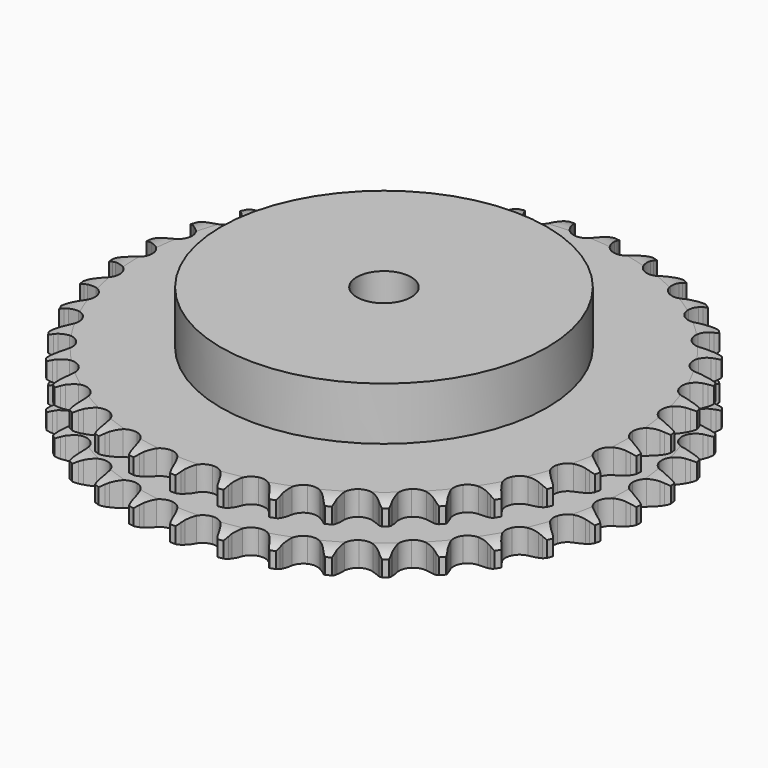
from build123d import *

# Parameters (mm, degrees)
PAD_DEPTH         = 25.5
SKETCH001_R       = 60
PAD001_DEPTH      = 45
SKETCH002_R       = 10
POCKET_DEPTH      = 0.001
POCKET_DEPTH_BACK = 45.001


with BuildPart() as part:
    # Sprocket → Pad (new body)
    with BuildSketch(Plane.XY):
        with BuildLine():
            ThreePointArc((-8.361214, 98.237154), (-7.231776, 96.838218), (-6.432471, 95.227702))
            Line((-6.432471, 95.227702), (-5.936919, 93.876112))
            ThreePointArc((-5.936919, 93.876112), (-5.153166, 92.136792), (-4.128134, 90.527815))
            ThreePointArc((-4.128134, 90.527815), (-2.310205, 89.000564), (0, 88.452555))
            ThreePointArc((0, 88.452555), (2.310205, 89.000564), (4.128134, 90.527815))
            ThreePointArc((4.128134, 90.527815), (5.153166, 92.136792), (5.936919, 93.876112))
            Line((5.936919, 93.876112), (6.432471, 95.227702))
            ThreePointArc((6.432471, 95.227702), (7.231776, 96.838218), (8.361214, 98.237154))
            ThreePointArc((8.361214, 98.237154), (9.237985, 96.667465), (9.753614, 94.945031))
            Line((9.753614, 94.945031), (10.013618, 93.529133))
            ThreePointArc((10.013618, 93.529133), (10.492151, 91.682378), (11.23052, 89.923312))
            ThreePointArc((11.23052, 89.923312), (12.764193, 88.110798), (14.948554, 87.180246))
            ThreePointArc((14.948554, 87.180246), (17.318143, 87.329945), (19.36803, 88.527996))
            Line((19.36803, 88.527996), (21.716662, 91.522445))
            ThreePointArc((21.716662, 91.522445), (22.058144, 92.156372), (22.433505, 92.770845))
            ThreePointArc((22.433505, 92.770845), (23.493492, 94.223112), (24.843105, 95.41105))
            ThreePointArc((24.843105, 95.41105), (25.441986, 93.715764), (25.659105, 91.930964))
            Line((25.659105, 91.930964), (25.676082, 90.491492))
            ThreePointArc((25.676082, 90.491492), (25.835628, 88.590428), (26.266093, 86.73188))
            ThreePointArc((26.266093, 86.73188), (27.471389, 84.686245), (29.467066, 83.399919))
            ThreePointArc((29.467066, 83.399919), (31.82787, 83.147003), (34.050742, 83.981389))
            Line((34.050742, 83.981389), (36.871656, 86.535844))
            ThreePointArc((36.871656, 86.535844), (37.31536, 87.102942), (37.789169, 87.64514))
            ThreePointArc((37.789169, 87.64514), (39.079343, 88.897379), (40.610305, 89.840143))
            ThreePointArc((40.610305, 89.840143), (40.914067, 88.068032), (40.826431, 86.272211))
            Line((40.826431, 86.272211), (40.599891, 84.850576))
            ThreePointArc((40.599891, 84.850576), (40.435861, 82.949893), (40.546038, 81.04533))
            ThreePointArc((40.546038, 81.04533), (41.388283, 78.825424), (43.137864, 77.220329))
            ThreePointArc((43.137864, 77.220329), (45.421967, 76.572073), (47.753877, 77.01879))
            Line((47.753877, 77.01879), (50.965919, 79.059765))
            ThreePointArc((50.965919, 79.059765), (51.499081, 79.543719), (52.057707, 79.998044))
            ThreePointArc((52.057707, 79.998044), (53.540952, 81.014231), (55.209221, 81.6847))
            ThreePointArc((55.209221, 81.6847), (55.209125, 79.886742), (54.819254, 78.131564))
            Line((54.819254, 78.131564), (54.355715, 76.768663))
            ThreePointArc((54.355715, 76.768663), (53.872828, 74.923041), (53.659548, 73.027253))
            ThreePointArc((53.659548, 73.027253), (54.114512, 70.696938), (55.567664, 68.819251))
            ThreePointArc((55.567664, 68.819251), (57.709356, 67.794304), (60.083219, 67.8405))
            Line((60.083219, 67.8405), (63.593986, 69.30928))
            ThreePointArc((63.593986, 69.30928), (64.201268, 69.696168), (64.828639, 70.04955))
            ThreePointArc((64.828639, 70.04955), (66.462285, 70.80045), (68.219868, 71.179336))
            ThreePointArc((68.219868, 71.179336), (67.915917, 69.407257), (67.235028, 67.743213))
            Line((67.235028, 67.743213), (66.547825, 66.478255))
            ThreePointArc((66.547825, 66.478255), (65.759972, 64.740789), (65.229369, 62.908315))
            ThreePointArc((65.229369, 62.908315), (65.283964, 60.53463), (66.398884, 58.438368))
            ThreePointArc((66.398884, 58.438368), (68.336552, 57.066216), (70.684077, 56.710563))
            Line((70.684077, 56.710563), (74.392569, 57.564893))
            ThreePointArc((74.392569, 57.564893), (75.056501, 57.843585), (75.73457, 58.085858))
            ThreePointArc((75.73457, 58.085858), (77.47162, 58.549869), (79.267953, 58.626272))
            ThreePointArc((79.267953, 58.626272), (78.668892, 56.931051), (77.716572, 55.406014))
            Line((77.716572, 55.406014), (76.825475, 54.275389))
            ThreePointArc((76.825475, 54.275389), (75.755321, 52.696062), (74.922661, 50.979619))
            ThreePointArc((74.922661, 50.979619), (74.575316, 48.630851), (75.319928, 46.376319))
            ThreePointArc((75.319928, 46.376319), (76.997831, 44.696437), (79.251483, 43.949166))
            Line((79.251483, 43.949166), (83.051014, 44.16447))
            ThreePointArc((83.051014, 44.16447), (83.752495, 44.326948), (84.461754, 44.451141))
            ThreePointArc((84.461754, 44.451141), (86.252237, 44.614915), (88.035644, 44.386638))
            ThreePointArc((88.035644, 44.386638), (87.158706, 42.817042), (85.962351, 41.474885))
            Line((85.962351, 41.474885), (84.892995, 40.511118))
            ThreePointArc((84.892995, 40.511118), (83.571327, 39.135366), (82.460564, 37.584332))
            ThreePointArc((82.460564, 37.584332), (81.721271, 35.328051), (82.074156, 32.980108))
            ThreePointArc((82.074156, 32.980108), (83.444021, 31.040823), (85.538967, 29.923432))
            Line((85.538967, 29.923432), (89.320233, 29.493514))
            ThreePointArc((89.320233, 29.493514), (90.039082, 29.535105), (90.759128, 29.537646))
            ThreePointArc((90.759128, 29.537646), (92.551535, 29.396471), (94.27071, 28.87008))
            ThreePointArc((94.27071, 28.87008), (93.141122, 27.471266), (91.735151, 26.350598))
            Line((91.735151, 26.350598), (90.518299, 25.581417))
            ThreePointArc((90.518299, 25.581417), (88.983139, 24.448817), (87.626227, 23.107813))
            ThreePointArc((87.626227, 23.107813), (86.516255, 21.008927), (86.467259, 18.63512))
            ThreePointArc((86.467259, 18.63512), (87.48968, 16.492221), (89.365652, 15.036855))
            Line((89.365652, 15.036855), (93.019871, 13.974084))
            ThreePointArc((93.019871, 13.974084), (93.735408, 13.89359), (94.445527, 13.774407))
            ThreePointArc((94.445527, 13.774407), (96.188293, 13.332345), (97.793779, 12.522983))
            ThreePointArc((97.793779, 12.522983), (96.444038, 11.33519), (94.868897, 10.468253))
            Line((94.868897, 10.468253), (93.539556, 9.915785))
            ThreePointArc((93.539556, 9.915785), (91.835068, 9.058919), (90.271043, 7.966524))
            ThreePointArc((90.271043, 7.966524), (88.822323, 6.085415), (88.372857, 3.754033))
            ThreePointArc((88.372857, 3.754033), (89.018419, 1.469167), (90.621449, -0.282305))
            Line((90.621449, -0.282305), (94.043496, -1.947354))
            ThreePointArc((94.043496, -1.947354), (94.735138, -2.147617), (95.4149, -2.385097))
            ThreePointArc((95.4149, -2.385097), (97.057889, -3.115329), (98.503499, -4.184377))
            ThreePointArc((98.503499, -4.184377), (96.972435, -5.126978), (95.273438, -5.715244))
            Line((95.273438, -5.715244), (93.869851, -6.035107))
            ThreePointArc((93.869851, -6.035107), (92.045068, -6.591587), (90.318925, -7.403948))
            ThreePointArc((90.318925, -7.403948), (88.573135, -9.013164), (87.736128, -11.235051))
            ThreePointArc((87.736128, -11.235051), (87.986261, -13.596151), (89.270232, -15.593344))
            Line((89.270232, -15.593344), (92.361662, -17.812772))
            ThreePointArc((92.361662, -17.812772), (93.00951, -18.127042), (93.639361, -18.475986))
            ThreePointArc((93.639361, -18.475986), (95.135306, -19.473381), (96.379452, -20.771361))
            ThreePointArc((96.379452, -20.771361), (94.711112, -21.441652), (92.937135, -21.734325))
            Line((92.937135, -21.734325), (91.49968, -21.812379))
            ThreePointArc((91.49968, -21.812379), (89.6071, -22.052465), (87.768497, -22.561421))
            ThreePointArc((87.768497, -22.561421), (85.775859, -23.85245), (84.575391, -25.900922))
            ThreePointArc((84.575391, -25.900922), (84.422898, -28.270333), (85.350873, -30.45579))
            Line((85.350873, -30.45579), (88.02275, -33.165748))
            ThreePointArc((88.02275, -33.165748), (88.608168, -33.584984), (89.169987, -34.035354))
            ThreePointArc((89.169987, -34.035354), (90.475854, -35.271219), (91.482745, -36.76079))
            ThreePointArc((91.482745, -36.76079), (89.725122, -37.139489), (87.9272, -37.128149))
            Line((87.9272, -37.128149), (86.497231, -36.962149))
            ThreePointArc((86.497231, -36.962149), (84.591299, -36.878934), (82.693128, -37.069843))
            ThreePointArc((82.693128, -37.069843), (80.510968, -38.005545), (78.981574, -39.821672))
            ThreePointArc((78.981574, -39.821672), (78.430842, -42.131229), (78.976125, -44.442079))
            Line((78.976125, -44.442079), (81.151584, -47.564606))
            ThreePointArc((81.151584, -47.564606), (81.65773, -48.076748), (82.135355, -48.615588))
            ThreePointArc((82.135355, -48.615588), (83.213576, -50.054368), (83.954245, -51.692679))
            ThreePointArc((83.954245, -51.692679), (82.157903, -51.76889), (80.38776, -51.453863))
            Line((80.38776, -51.453863), (79.006413, -51.048585))
            ThreePointArc((79.006413, -51.048585), (77.14196, -50.644463), (75.238829, -50.511834))
            ThreePointArc((75.238829, -50.511834), (72.929922, -51.065289), (71.115601, -52.596824))
            ThreePointArc((71.115601, -52.596824), (70.182473, -54.780086), (70.329378, -57.14985))
            Line((70.329378, -57.14985), (71.945835, -60.595116))
            ThreePointArc((71.945835, -60.595116), (72.358148, -61.185431), (72.737839, -61.797239))
            ThreePointArc((72.737839, -61.797239), (73.557396, -63.397544), (74.010534, -65.137463))
            ThreePointArc((74.010534, -65.137463), (72.227152, -64.908995), (70.53571, -64.299343))
            Line((70.53571, -64.299343), (69.242725, -63.666446))
            ThreePointArc((69.242725, -63.666446), (67.473388, -62.953043), (65.620045, -62.500691))
            ThreePointArc((65.620045, -62.500691), (63.250816, -62.655978), (61.203761, -63.858861))
            ThreePointArc((61.203761, -63.858861), (59.915083, -65.85302), (59.659382, -68.213524))
            Line((59.659382, -68.213524), (60.670336, -71.882416))
            ThreePointArc((60.670336, -71.882416), (60.976954, -72.533921), (61.247787, -73.201096))
            ThreePointArc((61.247787, -73.201096), (61.785102, -74.916889), (61.937676, -76.708361))
            ThreePointArc((61.937676, -76.708361), (60.218557, -76.181786), (58.654476, -75.295049))
            Line((58.654476, -75.295049), (57.48705, -74.452739))
            ThreePointArc((57.48705, -74.452739), (55.863728, -73.450579), (54.113493, -72.691517))
            ThreePointArc((54.113493, -72.691517), (51.752099, -72.444169), (49.531201, -73.283796))
            ThreePointArc((49.531201, -73.283796), (47.924044, -75.031482), (47.273095, -77.314819))
            Line((47.273095, -77.314819), (47.649461, -81.101789))
            ThreePointArc((47.649461, -81.101789), (47.841564, -81.795742), (47.995748, -82.499092))
            ThreePointArc((47.995748, -82.499092), (48.235364, -84.28101), (48.082983, -86.072499))
            ThreePointArc((48.082983, -86.072499), (46.477583, -85.262966), (45.08586, -84.124652))
            Line((45.08586, -84.124652), (44.077577, -83.097163))
            ThreePointArc((44.077577, -83.097163), (42.646972, -81.835075), (41.050193, -80.79114))
            ThreePointArc((41.050193, -80.79114), (38.764568, -80.148273), (36.433718, -80.600488))
            ThreePointArc((36.433718, -80.600488), (34.554318, -82.051426), (33.526846, -84.191907))
            Line((33.526846, -84.191907), (33.257798, -87.988012))
            ThreePointArc((33.257798, -87.988012), (33.329859, -88.704448), (33.362959, -89.423738))
            ThreePointArc((33.362959, -89.423738), (33.297983, -91.220521), (32.84503, -92.960488))
            ThreePointArc((32.84503, -92.960488), (31.399534, -91.891285), (30.220206, -90.534143))
            Line((30.220206, -90.534143), (29.400073, -89.351033))
            ThreePointArc((29.400073, -89.351033), (28.203339, -87.865325), (26.805955, -86.56655))
            ThreePointArc((26.805955, -86.56655), (24.661851, -85.546657), (22.288103, -85.598452))
            ThreePointArc((22.288103, -85.598452), (20.190528, -86.710899), (18.816092, -88.646948))
            Line((18.816092, -88.646948), (17.909369, -92.34298))
            ThreePointArc((17.909369, -92.34298), (17.859315, -93.061289), (17.770378, -93.775826))
            ThreePointArc((17.770378, -93.775826), (17.402679, -95.535783), (16.662185, -97.174173))
            ThreePointArc((16.662185, -97.174173), (15.418178, -95.87606), (14.485171, -94.339132))
            Line((14.485171, -94.339132), (13.876782, -93.034436))
            ThreePointArc((13.876782, -93.034436), (12.948348, -91.36785), (11.790557, -89.851597))
            ThreePointArc((11.790557, -89.851597), (9.849658, -88.484019), (7.501301, -88.133904))
            ThreePointArc((7.501301, -88.133904), (5.245892, -88.875857), (3.564033, -90.551777))
            Line((3.564033, -90.551777), (2.045719, -94.041408))
            ThreePointArc((2.045719, -94.041408), (1.874991, -94.740926), (1.666576, -95.430155))
            ThreePointArc((1.666576, -95.430155), (1.006731, -97.102655), (0, -98.592334))
            ThreePointArc((0, -98.592334), (-1.006731, -97.102655), (-1.666576, -95.430155))
            Line((-1.666576, -95.430155), (-2.045719, -94.041408))
            ThreePointArc((-2.045719, -94.041408), (-2.679144, -92.241888), (-3.564033, -90.551777))
            ThreePointArc((-3.564033, -90.551777), (-5.245892, -88.875857), (-7.501301, -88.133904))
            ThreePointArc((-7.501301, -88.133904), (-9.849658, -88.484019), (-11.790557, -89.851597))
            Line((-11.790557, -89.851597), (-13.876782, -93.034436))
            ThreePointArc((-13.876782, -93.034436), (-14.163273, -93.695039), (-14.485171, -94.339132))
            ThreePointArc((-14.485171, -94.339132), (-15.418178, -95.87606), (-16.662185, -97.174173))
            ThreePointArc((-16.662185, -97.174173), (-17.402679, -95.535783), (-17.770378, -93.775826))
            Line((-17.770378, -93.775826), (-17.909369, -92.34298))
            ThreePointArc((-17.909369, -92.34298), (-18.229562, -90.462294), (-18.816092, -88.646948))
            ThreePointArc((-18.816092, -88.646948), (-20.190528, -86.710899), (-22.288103, -85.598452))
            ThreePointArc((-22.288103, -85.598452), (-24.661851, -85.546657), (-26.805955, -86.56655))
            Line((-26.805955, -86.56655), (-29.400073, -89.351033))
            ThreePointArc((-29.400073, -89.351033), (-29.794086, -89.953716), (-30.220206, -90.534143))
            ThreePointArc((-30.220206, -90.534143), (-31.399534, -91.891285), (-32.84503, -92.960488))
            ThreePointArc((-32.84503, -92.960488), (-33.297983, -91.220521), (-33.362959, -89.423738))
            Line((-33.362959, -89.423738), (-33.257798, -87.988012))
            ThreePointArc((-33.257798, -87.988012), (-33.255548, -86.080266), (-33.526846, -84.191907))
            ThreePointArc((-33.526846, -84.191907), (-34.554318, -82.051426), (-36.433718, -80.600488))
            ThreePointArc((-36.433718, -80.600488), (-38.764568, -80.148273), (-41.050193, -80.79114))
            Line((-41.050193, -80.79114), (-44.077577, -83.097163))
            ThreePointArc((-44.077577, -83.097163), (-44.567777, -83.624589), (-45.08586, -84.124652))
            ThreePointArc((-45.08586, -84.124652), (-46.477583, -85.262966), (-48.082983, -86.072499))
            ThreePointArc((-48.082983, -86.072499), (-48.235364, -84.28101), (-47.995748, -82.499092))
            Line((-47.995748, -82.499092), (-47.649461, -81.101789))
            ThreePointArc((-47.649461, -81.101789), (-47.324833, -79.221865), (-47.273095, -77.314819))
            ThreePointArc((-47.273095, -77.314819), (-47.924044, -75.031482), (-49.531201, -73.283796))
            ThreePointArc((-49.531201, -73.283796), (-51.752099, -72.444169), (-54.113493, -72.691517))
            Line((-54.113493, -72.691517), (-57.48705, -74.452739))
            ThreePointArc((-57.48705, -74.452739), (-58.059334, -74.889735), (-58.654476, -75.295049))
            ThreePointArc((-58.654476, -75.295049), (-60.218557, -76.181786), (-61.937676, -76.708361))
            ThreePointArc((-61.937676, -76.708361), (-61.785102, -74.916889), (-61.247787, -73.201096))
            Line((-61.247787, -73.201096), (-60.670336, -71.882416))
            ThreePointArc((-60.670336, -71.882416), (-60.032668, -70.084395), (-59.659382, -68.213524))
            ThreePointArc((-59.659382, -68.213524), (-59.915083, -65.85302), (-61.203761, -63.858861))
            ThreePointArc((-61.203761, -63.858861), (-63.250816, -62.655978), (-65.620045, -62.500691))
            Line((-65.620045, -62.500691), (-69.242725, -63.666446))
            ThreePointArc((-69.242725, -63.666446), (-69.88063, -64.000439), (-70.53571, -64.299343))
            ThreePointArc((-70.53571, -64.299343), (-72.227152, -64.908995), (-74.010534, -65.137463))
            ThreePointArc((-74.010534, -65.137463), (-73.557396, -63.397544), (-72.737839, -61.797239))
            Line((-72.737839, -61.797239), (-71.945835, -60.595116))
            ThreePointArc((-71.945835, -60.595116), (-71.013473, -58.930724), (-70.329378, -57.14985))
            ThreePointArc((-70.329378, -57.14985), (-70.182473, -54.780086), (-71.115601, -52.596824))
            ThreePointArc((-71.115601, -52.596824), (-72.929922, -51.065289), (-75.238829, -50.511834))
            Line((-75.238829, -50.511834), (-79.006413, -51.048585))
            ThreePointArc((-79.006413, -51.048585), (-79.691587, -51.269967), (-80.38776, -51.453863))
            ThreePointArc((-80.38776, -51.453863), (-82.157903, -51.76889), (-83.954245, -51.692679))
            ThreePointArc((-83.954245, -51.692679), (-83.213576, -50.054368), (-82.135355, -48.615588))
            Line((-82.135355, -48.615588), (-81.151584, -47.564606))
            ThreePointArc((-81.151584, -47.564606), (-79.95135, -46.081724), (-78.976125, -44.442079))
            ThreePointArc((-78.976125, -44.442079), (-78.430842, -42.131229), (-78.981574, -39.821672))
            ThreePointArc((-78.981574, -39.821672), (-80.510968, -38.005545), (-82.693128, -37.069843))
            Line((-82.693128, -37.069843), (-86.497231, -36.962149))
            ThreePointArc((-86.497231, -36.962149), (-87.209963, -37.064552), (-87.9272, -37.128149))
            ThreePointArc((-87.9272, -37.128149), (-89.725122, -37.139489), (-91.482745, -36.76079))
            ThreePointArc((-91.482745, -36.76079), (-90.475854, -35.271219), (-89.169987, -34.035354))
            Line((-89.169987, -34.035354), (-88.02275, -33.165748))
            ThreePointArc((-88.02275, -33.165748), (-86.589172, -31.907037), (-85.350873, -30.45579))
            ThreePointArc((-85.350873, -30.45579), (-84.422898, -28.270333), (-84.575391, -25.900922))
            ThreePointArc((-84.575391, -25.900922), (-85.775859, -23.85245), (-87.768497, -22.561421))
            Line((-87.768497, -22.561421), (-91.49968, -21.812379))
            ThreePointArc((-91.49968, -21.812379), (-92.219467, -21.792856), (-92.937135, -21.734325))
            ThreePointArc((-92.937135, -21.734325), (-94.711112, -21.441652), (-96.379452, -20.771361))
            ThreePointArc((-96.379452, -20.771361), (-95.135306, -19.473381), (-93.639361, -18.475986))
            Line((-93.639361, -18.475986), (-92.361662, -17.812772))
            ThreePointArc((-92.361662, -17.812772), (-90.735981, -16.814442), (-89.270232, -15.593344))
            ThreePointArc((-89.270232, -15.593344), (-87.986261, -13.596151), (-87.736128, -11.235051))
            ThreePointArc((-87.736128, -11.235051), (-88.573135, -9.013164), (-90.318925, -7.403948))
            Line((-90.318925, -7.403948), (-93.869851, -6.035107))
            ThreePointArc((-93.869851, -6.035107), (-94.575984, -5.894221), (-95.273438, -5.715244))
            ThreePointArc((-95.273438, -5.715244), (-96.972435, -5.126978), (-98.503499, -4.184377))
            ThreePointArc((-98.503499, -4.184377), (-97.057889, -3.115329), (-95.4149, -2.385097))
            Line((-95.4149, -2.385097), (-94.043496, -1.947354))
            ThreePointArc((-94.043496, -1.947354), (-92.272481, -1.238127), (-90.621449, -0.282305))
            ThreePointArc((-90.621449, -0.282305), (-89.018419, 1.469167), (-88.372857, 3.754033))
            ThreePointArc((-88.372857, 3.754033), (-88.822323, 6.085415), (-90.271043, 7.966524))
            Line((-90.271043, 7.966524), (-93.539556, 9.915785))
            ThreePointArc((-93.539556, 9.915785), (-94.211723, 10.173981), (-94.868897, 10.468253))
            ThreePointArc((-94.868897, 10.468253), (-96.444038, 11.33519), (-97.793779, 12.522983))
            ThreePointArc((-97.793779, 12.522983), (-96.188293, 13.332345), (-94.445527, 13.774407))
            Line((-94.445527, 13.774407), (-93.019871, 13.974084))
            ThreePointArc((-93.019871, 13.974084), (-91.154469, 14.373808), (-89.365652, 15.036855))
            ThreePointArc((-89.365652, 15.036855), (-87.48968, 16.492221), (-86.467259, 18.63512))
            ThreePointArc((-86.467259, 18.63512), (-86.516255, 21.008927), (-87.626227, 23.107813))
            Line((-87.626227, 23.107813), (-90.518299, 25.581417))
            ThreePointArc((-90.518299, 25.581417), (-91.137162, 25.949496), (-91.735151, 26.350598))
            ThreePointArc((-91.735151, 26.350598), (-93.141122, 27.471266), (-94.27071, 28.87008))
            ThreePointArc((-94.27071, 28.87008), (-92.551535, 29.396471), (-90.759128, 29.537646))
            Line((-90.759128, 29.537646), (-89.320233, 29.493514))
            ThreePointArc((-89.320233, 29.493514), (-87.41411, 29.572234), (-85.538967, 29.923432))
            ThreePointArc((-85.538967, 29.923432), (-83.444021, 31.040823), (-82.074156, 32.980108))
            ThreePointArc((-82.074156, 32.980108), (-81.721271, 35.328051), (-82.460564, 37.584332))
            Line((-82.460564, 37.584332), (-84.892995, 40.511118))
            ThreePointArc((-84.892995, 40.511118), (-85.440751, 40.978492), (-85.962351, 41.474885))
            ThreePointArc((-85.962351, 41.474885), (-87.158706, 42.817042), (-88.035644, 44.386638))
            ThreePointArc((-88.035644, 44.386638), (-86.252237, 44.614915), (-84.461754, 44.451141))
            Line((-84.461754, 44.451141), (-83.051014, 44.16447))
            ThreePointArc((-83.051014, 44.16447), (-81.159006, 43.91992), (-79.251483, 43.949166))
            ThreePointArc((-79.251483, 43.949166), (-76.997831, 44.696437), (-75.319928, 46.376319))
            ThreePointArc((-75.319928, 46.376319), (-74.575316, 48.630851), (-74.922661, 50.979619))
            Line((-74.922661, 50.979619), (-76.825475, 54.275389))
            ThreePointArc((-76.825475, 54.275389), (-77.286364, 54.82861), (-77.716572, 55.406014))
            ThreePointArc((-77.716572, 55.406014), (-78.668892, 56.931051), (-79.267953, 58.626272))
            ThreePointArc((-79.267953, 58.626272), (-77.47162, 58.549869), (-75.73457, 58.085858))
            Line((-75.73457, 58.085858), (-74.392569, 57.564893))
            ThreePointArc((-74.392569, 57.564893), (-72.569105, 57.004111), (-70.684077, 56.710563))
            ThreePointArc((-70.684077, 56.710563), (-68.336552, 57.066216), (-66.398884, 58.438368))
            ThreePointArc((-66.398884, 58.438368), (-65.283964, 60.53463), (-65.229369, 62.908315))
            Line((-65.229369, 62.908315), (-66.547825, 66.478255))
            ThreePointArc((-66.547825, 66.478255), (-66.90859, 67.10141), (-67.235028, 67.743213))
            ThreePointArc((-67.235028, 67.743213), (-67.915917, 69.407257), (-68.219868, 71.179336))
            ThreePointArc((-68.219868, 71.179336), (-66.462285, 70.80045), (-64.828639, 70.04955))
            Line((-64.828639, 70.04955), (-63.593986, 69.30928))
            ThreePointArc((-63.593986, 69.30928), (-61.891523, 68.448397), (-60.083219, 67.8405))
            ThreePointArc((-60.083219, 67.8405), (-57.709356, 67.794304), (-55.567664, 68.819251))
            ThreePointArc((-55.567664, 68.819251), (-54.114512, 70.696938), (-53.659548, 73.027253))
            Line((-53.659548, 73.027253), (-54.355715, 76.768663))
            ThreePointArc((-54.355715, 76.768663), (-54.605978, 77.443824), (-54.819254, 78.131564))
            ThreePointArc((-54.819254, 78.131564), (-55.209125, 79.886742), (-55.209221, 81.6847))
            ThreePointArc((-55.209221, 81.6847), (-53.540952, 81.014231), (-52.057707, 79.998044))
            Line((-52.057707, 79.998044), (-50.965919, 79.059765))
            ThreePointArc((-50.965919, 79.059765), (-49.433435, 77.923547), (-47.753877, 77.01879))
            ThreePointArc((-47.753877, 77.01879), (-45.421967, 76.572073), (-43.137864, 77.220329))
            ThreePointArc((-43.137864, 77.220329), (-41.388283, 78.825424), (-40.546038, 81.04533))
            Line((-40.546038, 81.04533), (-40.599891, 84.850576))
            ThreePointArc((-40.599891, 84.850576), (-40.732451, 85.55832), (-40.826431, 86.272211))
            ThreePointArc((-40.826431, 86.272211), (-40.914067, 88.068032), (-40.610305, 89.840143))
            ThreePointArc((-40.610305, 89.840143), (-39.079343, 88.897379), (-37.789169, 87.64514))
            Line((-37.789169, 87.64514), (-36.871656, 86.535844))
            ThreePointArc((-36.871656, 86.535844), (-35.553236, 85.156979), (-34.050742, 83.981389))
            ThreePointArc((-34.050742, 83.981389), (-31.82787, 83.147003), (-29.467066, 83.399919))
            ThreePointArc((-29.467066, 83.399919), (-27.471389, 84.686245), (-26.266093, 86.73188))
            Line((-26.266093, 86.73188), (-25.676082, 90.491492))
            ThreePointArc((-25.676082, 90.491492), (-25.687125, 91.211459), (-25.659105, 91.930964))
            ThreePointArc((-25.659105, 91.930964), (-25.441986, 93.715764), (-24.843105, 95.41105))
            ThreePointArc((-24.843105, 95.41105), (-23.493492, 94.223112), (-22.433505, 92.770845))
            Line((-22.433505, 92.770845), (-21.716662, 91.522445))
            ThreePointArc((-21.716662, 91.522445), (-20.650236, 89.940599), (-19.36803, 88.527996))
            ThreePointArc((-19.36803, 88.527996), (-17.318143, 87.329945), (-14.948554, 87.180246))
            ThreePointArc((-14.948554, 87.180246), (-12.764193, 88.110798), (-11.23052, 89.923312))
            Line((-11.23052, 89.923312), (-10.013618, 93.529133))
            ThreePointArc((-10.013618, 93.529133), (-9.902828, 94.24061), (-9.753614, 94.945031))
            ThreePointArc((-9.753614, 94.945031), (-9.237985, 96.667465), (-8.361214, 98.237154))
        make_face()
    extrude(amount=PAD_DEPTH)

    # Sketch → Groove (revolve, cut)
    with BuildSketch(Plane.XZ):
        with BuildLine():
            ThreePointArc((90.125762, 0), (93.70347, 0.405129), (97.1, 1.6))
            Line((97.1, 1.6), (97.1, 7.4))
            ThreePointArc((97.1, 7.4), (93.70347, 8.594871), (90.125762, 9))
            Line((60, 9), (90.125762, 9))
            Line((60, 16.5), (60, 9))
            Line((90.125762, 16.5), (60, 16.5))
            ThreePointArc((90.125762, 16.5), (93.70347, 16.905129), (97.1, 18.1))
            Line((97.1, 18.1), (97.1, 23.9))
            ThreePointArc((97.1, 23.9), (93.70347, 25.094871), (90.125762, 25.5))
            Line((90.125762, 25.5), (100.125762, 25.5))
            Line((100.125762, 25.5), (100.125762, 0))
            Line((90.125762, 0), (100.125762, 0))
        make_face()
    revolve(axis=Axis((0, 0, 0), (0, 0, 1)), mode=Mode.SUBTRACT)

    # Sketch001 → Pad001 (join)
    with BuildSketch(Plane.XY):
        Circle(SKETCH001_R)
    extrude(amount=PAD001_DEPTH)

    # Sketch002 → Pocket (cut, two sides)
    with BuildSketch(Plane.XY) as pocket_sk:
        Circle(SKETCH002_R)
    extrude(amount=-POCKET_DEPTH, mode=Mode.SUBTRACT)
    extrude(pocket_sk.sketch, amount=POCKET_DEPTH_BACK, mode=Mode.SUBTRACT)


solid = part.part
